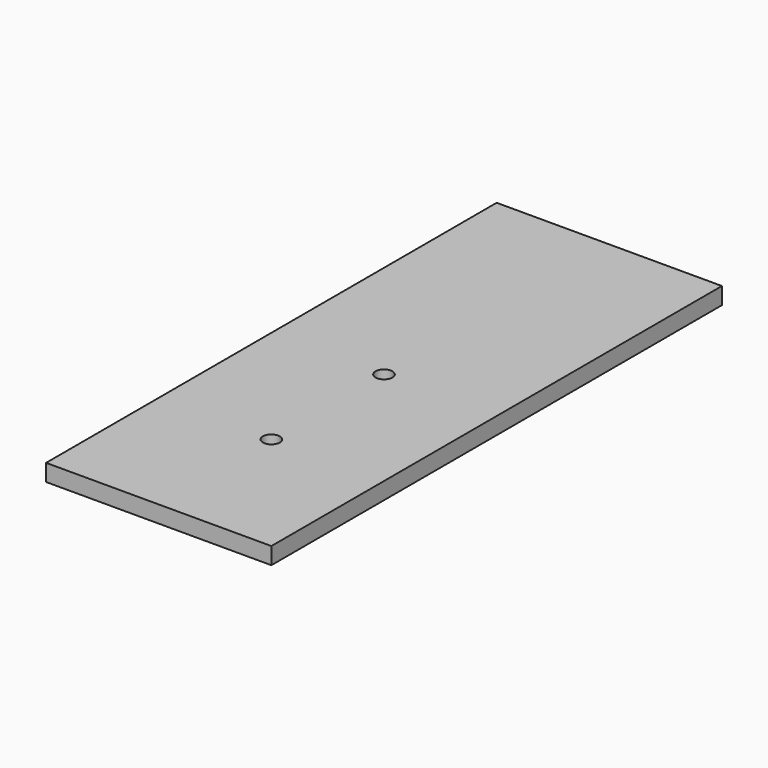
from build123d import *

# Parameters (mm, degrees)
F0_W     = 40
F0_H     = 100
F1_DEPTH = 3
F3_D     = 3


with BuildPart() as f1:
    # F0 (on Top) → F1 (new body)
    with BuildSketch(Plane.XY):
        with Locations((20, 50)):
            Rectangle(F0_W, F0_H)
    extrude(amount=F1_DEPTH)

    # F3 (through all)
    with Locations(Plane.XY.offset(3)):
        with Locations((20, 50), (20, 25)):
            Hole(F3_D / 2)


solid = f1.part
